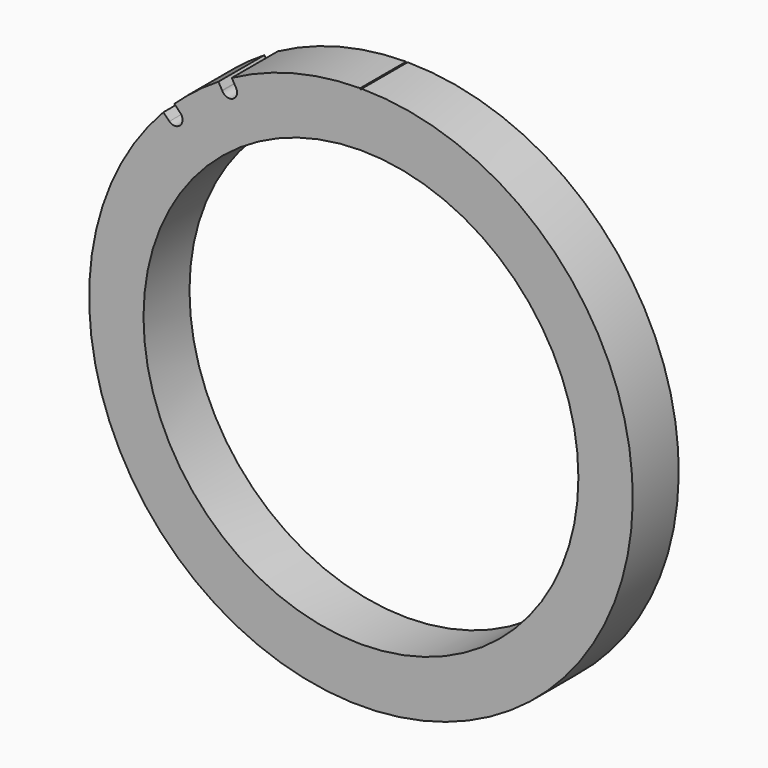
from build123d import *

# Parameters (mm, degrees)
F0_R     = 175
F0_R_2   = 140
F1_DEPTH = 37
F3_DEPTH = 64
F4_DEPTH = 40


with BuildPart() as f1:
    # F0 (on Front) → F1 (new body)
    with BuildSketch(Plane.XZ):
        Circle(F0_R)
        Circle(F0_R_2, mode=Mode.SUBTRACT)
    extrude(amount=F1_DEPTH)

    # F2 (on face) → F3 (cut)
    with BuildSketch(Plane.XZ.offset(37)):
        with BuildLine():
            Line((-134.6558720136, 127.5854463967), (-127.2283504649, 120.158007798))
            ThreePointArc((-127.2283504649, 120.158007798), (-123.7436867076, 123.7436867076), (-120.158007798, 127.2283504649))
            Line((-120.158007798, 127.2283504649), (-127.5854463967, 134.6558720136))
            ThreePointArc((-127.5854463967, 134.6558720136), (-134.703841816, 134.703841816), (-134.6558720136, 127.5854463967))
        make_face()
        with BuildLine():
            ThreePointArc((-123.3376217614, 116.267322546), (-119.8177388722, 114.8547352829), (-116.3190655052, 116.3190655052))
            ThreePointArc((-116.3190655052, 116.3190655052), (-114.8547352829, 119.8177388722), (-116.267322546, 123.3376217614))
            Line((-116.267322546, 123.3376217614), (-120.158007798, 127.2283504649))
            ThreePointArc((-120.158007798, 127.2283504649), (-123.7436867076, 123.7436867076), (-127.2283504649, 120.158007798))
            Line((-127.2283504649, 120.158007798), (-123.3376217614, 116.267322546))
        make_face()
        with BuildLine():
            ThreePointArc((-89.2769447092, 144.6683901164), (-86.2483562751, 142.021093318), (-82.25, 142.4611789225))
            ThreePointArc((-82.25, 142.4611789225), (-79.8696965491, 145.7038142279), (-80.6480286108, 149.6502971486))
            Line((-80.6480286108, 149.6502971486), (-83.1500538847, 153.9839879305))
            ThreePointArc((-83.1500538847, 153.9839879305), (-87.5003449373, 151.5542465121), (-91.7796966371, 149.0016351762))
            Line((-91.7796966372, 149.0016351762), (-89.397566175, 144.8749948502))
            Line((-89.397566175, 144.8749948502), (-89.2769447092, 144.6683901164))
        make_face()
        with BuildLine():
            ThreePointArc((-89.2769447092, 144.6683901164), (-86.2483562751, 142.021093318), (-82.25, 142.4611789225))
            ThreePointArc((-82.25, 142.4611789225), (-79.8696965491, 145.7038142279), (-80.6480286108, 149.6502971486))
            Line((-80.6480286108, 149.6502971486), (-83.1500538847, 153.9839879305))
            ThreePointArc((-83.1500538847, 153.9839879305), (-87.5003449373, 151.5542465121), (-91.7796966371, 149.0016351762))
            Line((-91.7796966372, 149.0016351762), (-89.397566175, 144.8749948502))
            Line((-89.397566175, 144.8749948502), (-89.2769447092, 144.6683901164))
        make_face()
    extrude(amount=-F3_DEPTH, mode=Mode.SUBTRACT)

    # F2 (on face) → F4 (cut)
    with BuildSketch(Plane.XZ.offset(37)):
        with BuildLine():
            ThreePointArc((0.5, 175), (-0.3535533906, 175.3535533906), (0, 174.5))
            ThreePointArc((0, 174.5), (0.3535533906, 174.6464466094), (0.5, 175))
        make_face()
        with BuildLine():
            ThreePointArc((-123.3376217614, 116.267322546), (-119.8177388722, 114.8547352829), (-116.3190655052, 116.3190655052))
            ThreePointArc((-116.3190655052, 116.3190655052), (-114.8547352829, 119.8177388722), (-116.267322546, 123.3376217614))
            Line((-116.267322546, 123.3376217614), (-127.5854463967, 134.6558720136))
            ThreePointArc((-127.5854463967, 134.6558720136), (-134.703841816, 134.703841816), (-134.6558720136, 127.5854463967))
            Line((-134.6558720136, 127.5854463967), (-123.3376217614, 116.267322546))
        make_face()
    extrude(amount=-F4_DEPTH, mode=Mode.SUBTRACT)


solid = f1.part
